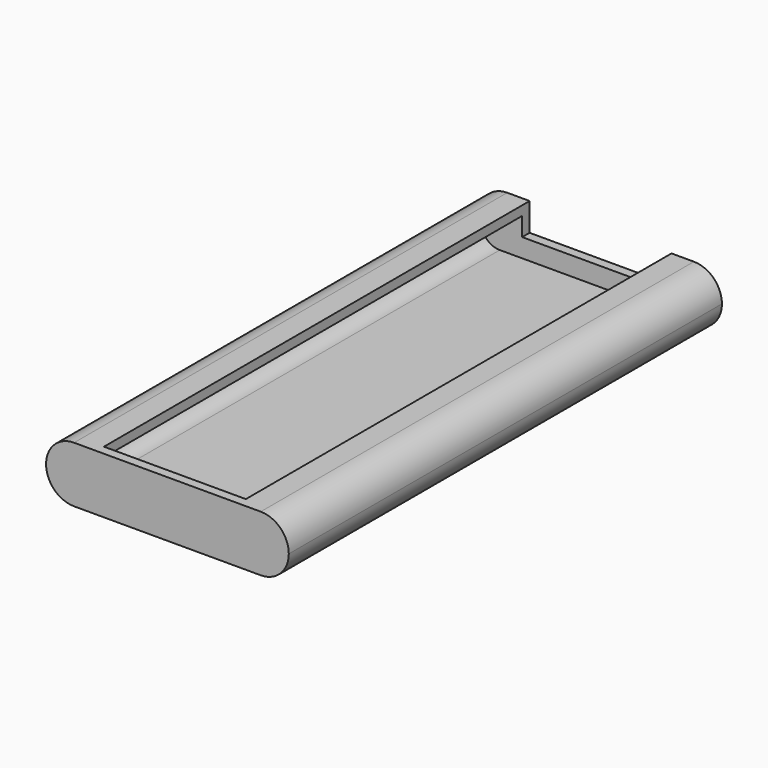
from build123d import *

# Parameters (mm, degrees)
F1_DEPTH = 177.8
F3_DEPTH = 3.175
F5_DEPTH = 3.175


with BuildPart() as f1:
    # F0 (on Front) → F1 (new body)
    with BuildSketch(Plane.XZ):
        with BuildLine():
            ThreePointArc((0, 9.525), (2.789808, 2.789808), (9.525, 0))
            Line((9.525, 0), (73.025, 0))
            ThreePointArc((73.025, 0), (79.760192, 2.789808), (82.55, 9.525))
            ThreePointArc((82.55, 9.525), (79.760192, 16.260192), (73.025, 19.05))
            Line((73.025, 19.05), (65.405, 19.05))
            Line((65.405, 19.05), (65.405, 15.875))
            Line((65.405, 15.875), (73.025, 15.875))
            ThreePointArc((73.025, 15.875), (77.515128, 14.015128), (79.375, 9.525))
            ThreePointArc((79.375, 9.525), (77.515128, 5.034872), (73.025, 3.175))
            Line((73.025, 3.175), (9.525, 3.175))
            ThreePointArc((9.525, 3.175), (5.034872, 5.034872), (3.175, 9.525))
            ThreePointArc((3.175, 9.525), (5.034872, 14.015128), (9.525, 15.875))
            Line((9.525, 15.875), (17.145, 15.875))
            Line((17.145, 15.875), (17.145, 19.05))
            Line((17.145, 19.05), (9.525, 19.05))
            ThreePointArc((9.525, 19.05), (2.789808, 16.260192), (0, 9.525))
        make_face()
    extrude(amount=F1_DEPTH)

    # F2 (on face) → F3 (join)
    with BuildSketch(Plane.XZ.offset(177.8)):
        with BuildLine():
            Line((73.025, 19.05), (9.525, 19.05))
            ThreePointArc((9.525, 19.05), (2.789808, 16.260192), (0, 9.525))
            ThreePointArc((0, 9.525), (2.789808, 2.789808), (9.525, 0))
            Line((9.525, 0), (73.025, 0))
            ThreePointArc((73.025, 0), (79.760192, 2.789808), (82.55, 9.525))
            ThreePointArc((82.55, 9.525), (79.760192, 16.260192), (73.025, 19.05))
        make_face()
    extrude(amount=F3_DEPTH)

    # F4 (on face) → F5 (join)
    with BuildSketch(Plane(origin=(0, 0, 0), x_dir=(-1, 0, 0), z_dir=(0, 1, 0))):
        with BuildLine():
            Line((-65.405, 9.525), (-65.405, 19.05))
            Line((-65.405, 19.05), (-73.025, 19.05))
            ThreePointArc((-73.025, 19.05), (-79.760192, 16.260192), (-82.55, 9.525))
            ThreePointArc((-82.55, 9.525), (-79.760192, 2.789808), (-73.025, 0))
            Line((-73.025, 0), (-9.525, 0))
            ThreePointArc((-9.525, 0), (-2.789808, 2.789808), (0, 9.525))
            ThreePointArc((0, 9.525), (-2.789808, 16.260192), (-9.525, 19.05))
            Line((-9.525, 19.05), (-17.145, 19.05))
            Line((-17.145, 19.05), (-17.145, 9.525))
            Line((-17.145, 9.525), (-65.405, 9.525))
        make_face()
    extrude(amount=F5_DEPTH)


solid = f1.part
